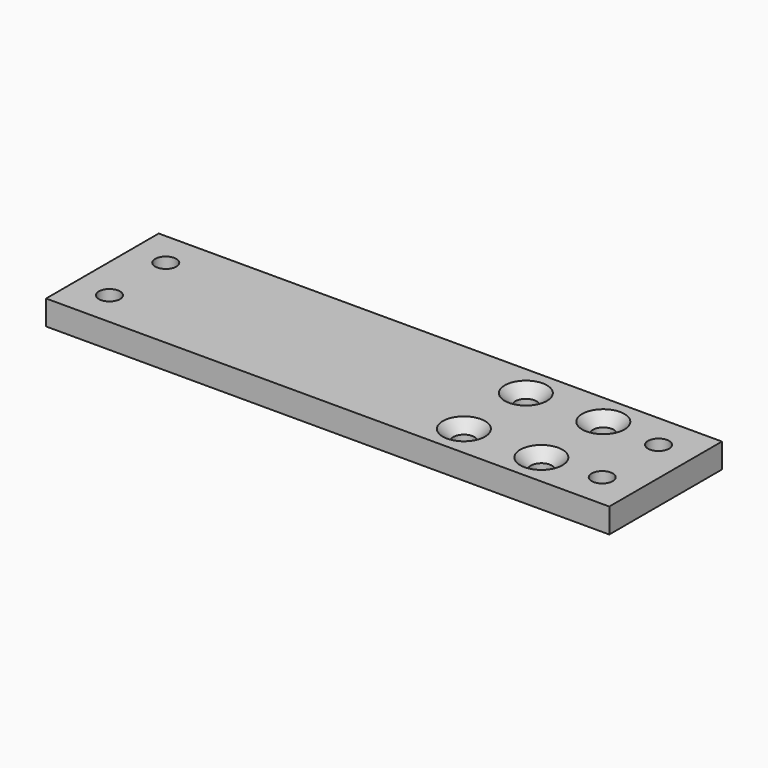
from build123d import *

# Parameters (mm, degrees)
F0_W     = 160
F0_H     = 40
F0_R     = 3
F1_DEPTH = 7
F2_SIZE  = 3


with BuildPart() as f1:
    # F0 (on Top) → F1 (new body)
    with BuildSketch(Plane.XY):
        with Locations((80, 20)):
            Rectangle(F0_W, F0_H)
        with Locations((10, 10)):
            Circle(F0_R, mode=Mode.SUBTRACT)
        with Locations((111.5, 9)):
            Circle(F0_R, mode=Mode.SUBTRACT)
        with Locations((133.5, 9)):
            Circle(F0_R, mode=Mode.SUBTRACT)
        with Locations((150, 10)):
            Circle(F0_R, mode=Mode.SUBTRACT)
        with Locations((10, 30)):
            Circle(F0_R, mode=Mode.SUBTRACT)
        with Locations((111.5, 31)):
            Circle(F0_R, mode=Mode.SUBTRACT)
        with Locations((133.5, 31)):
            Circle(F0_R, mode=Mode.SUBTRACT)
        with Locations((150, 30)):
            Circle(F0_R, mode=Mode.SUBTRACT)
    extrude(amount=F1_DEPTH)

    # F2
    f2_edges = [f1.edges().sort_by_distance(p)[0] for p in [
        (108.5, 31, 7),
        (130.5, 31, 7),
        (130.5, 9, 7),
        (108.5, 9, 7),
        (147, 10, 0),
        (147, 30, 0),
        (7, 10, 0),
        (7, 30, 0),
    ]]
    chamfer(f2_edges, length=F2_SIZE)


solid = f1.part
